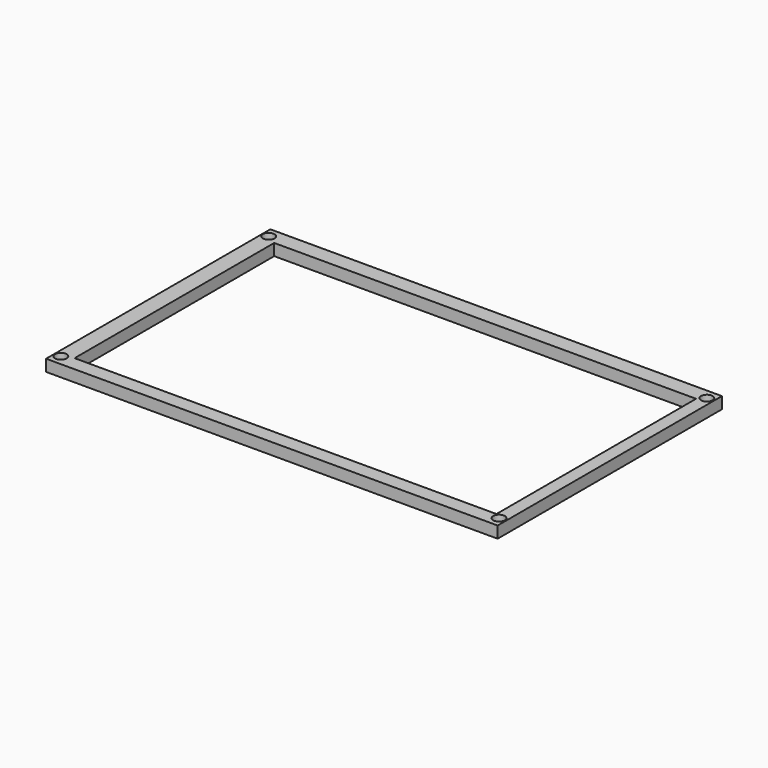
from build123d import *

# Parameters (mm, degrees)
F0_W     = 116.462328
F0_H     = 72.291564
F0_R     = 1.5
F0_W_2   = 108.797777
F0_H_2   = 64.347155
F1_DEPTH = 3


with BuildPart() as f1:
    # F0 (on Top) → F1 (new body)
    with BuildSketch(Plane.XY):
        with Locations((0.074979, -0.045983)):
            Rectangle(F0_W, F0_H)
        with Locations((-56.5, -33.5)):
            Circle(F0_R, mode=Mode.SUBTRACT)
        with Locations((56.5, -33.5)):
            Circle(F0_R, mode=Mode.SUBTRACT)
        with Locations((0.575187, -0.244237)):
            Rectangle(F0_W_2, F0_H_2, mode=Mode.SUBTRACT)
        with Locations((-56.5, 33.5)):
            Circle(F0_R, mode=Mode.SUBTRACT)
        with Locations((56.5, 33.5)):
            Circle(F0_R, mode=Mode.SUBTRACT)
    extrude(amount=F1_DEPTH)


solid = f1.part
